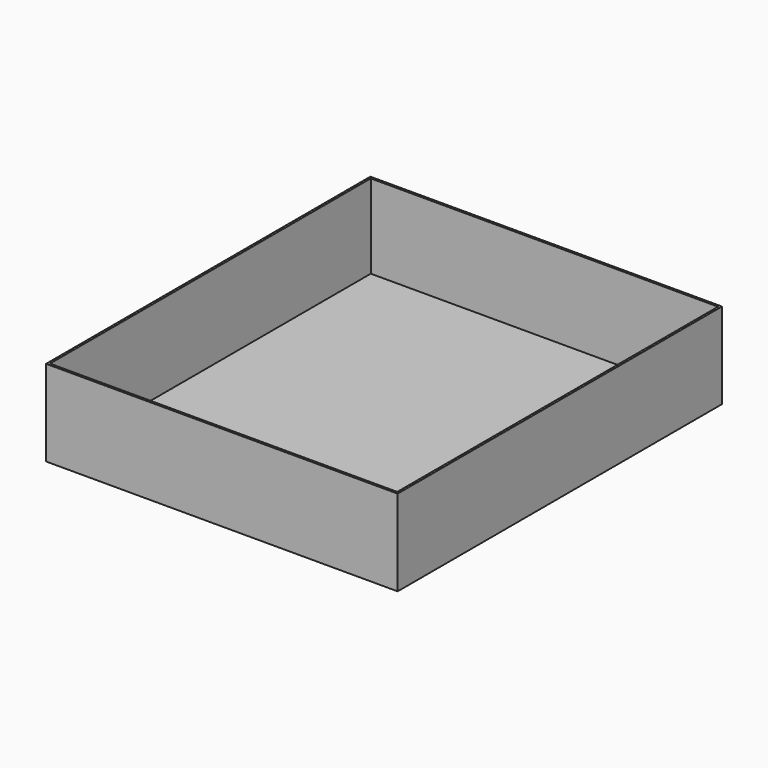
from build123d import *

# Parameters (mm, degrees)
F1_W     = 327
F1_H     = 377
F1_W_2   = 323
F1_H_2   = 373
F2_DEPTH = 80
F3_DEPTH = 2


with BuildPart() as f2:
    # F1 (on Top) → F2 (new body)
    with BuildSketch(Plane.XY):
        Rectangle(F1_W, F1_H)
        Rectangle(F1_W_2, F1_H_2, mode=Mode.SUBTRACT)
    extrude(amount=F2_DEPTH)

    # F1 (on Top) → F3 (join)
    with BuildSketch(Plane.XY):
        Rectangle(F1_W, F1_H)
        Rectangle(F1_W_2, F1_H_2, mode=Mode.SUBTRACT)
        Rectangle(F1_W_2, F1_H_2)
    extrude(amount=F3_DEPTH)


solid = f2.part
